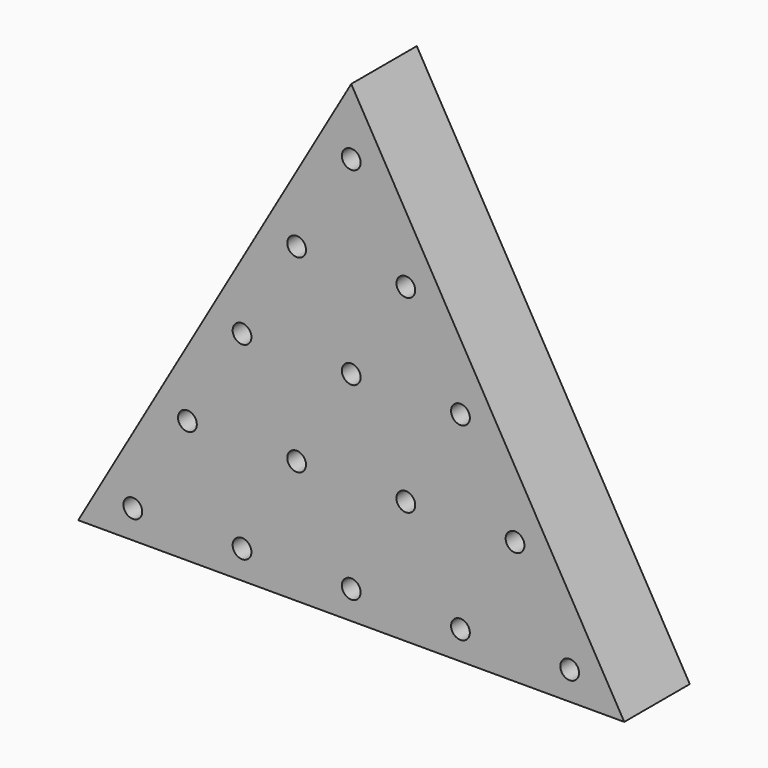
from build123d import *

# Parameters (mm, degrees)
F1_DEPTH = 19.05
F2_R     = 2.18313
F2_R_2   = 2.1844
F3_DEPTH = 15.875


with BuildPart() as f1:
    # F0 (on Front) → F1 (new body)
    with BuildSketch(Plane.XZ):
        Polygon((63.5, 0), (0, 109.985226), (-63.5, 0), align=None)
    extrude(amount=F1_DEPTH)

    # F2 (on face) → F3 (cut)
    with BuildSketch(Plane.XZ.offset(19.05)):
        with Locations((0, 94.568047)):
            Circle(F2_R)
        with Locations((-12.7, 72.571001)):
            Circle(F2_R)
        with Locations((-25.4, 50.573956)):
            Circle(F2_R)
        with Locations((-38.1, 28.576911)):
            Circle(F2_R)
        with Locations((-50.8, 6.579866)):
            Circle(F2_R)
        with Locations((12.7, 72.571001)):
            Circle(F2_R_2)
        with Locations((25.4, 50.573956)):
            Circle(F2_R_2)
        with Locations((0, 50.573956)):
            Circle(F2_R_2)
        with Locations((-12.7, 28.576911)):
            Circle(F2_R_2)
        with Locations((12.7, 28.576911)):
            Circle(F2_R_2)
        with Locations((38.1, 28.576911)):
            Circle(F2_R_2)
        with Locations((-25.4, 6.579866)):
            Circle(F2_R_2)
        with Locations((0, 6.579866)):
            Circle(F2_R_2)
        with Locations((25.4, 6.579866)):
            Circle(F2_R_2)
        with Locations((50.8, 6.579866)):
            Circle(F2_R_2)
    extrude(amount=-F3_DEPTH, mode=Mode.SUBTRACT)


solid = f1.part
